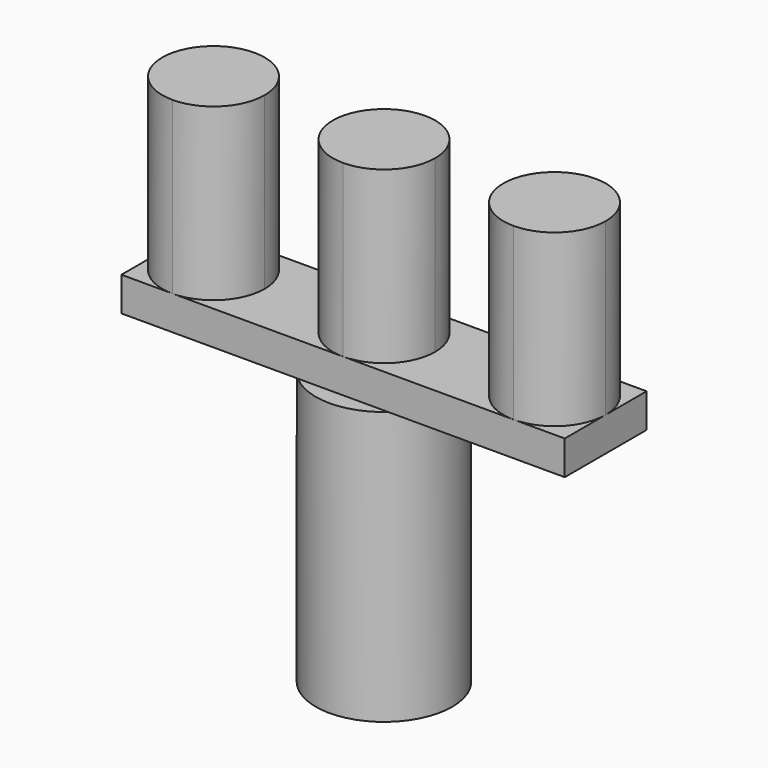
from build123d import *

# Parameters (mm, degrees)
F1_DEPTH = 5
F2_DEPTH = 30
F3_DEPTH = 30
F4_DEPTH = 30
F5_R     = 10
F6_DEPTH = 40


with BuildPart() as f1:
    # F0 (on Top) → F1 (new body)
    with BuildSketch(Plane.XY):
        with BuildLine():
            Line((32.5, 0), (32.5, 7.5))
            Line((32.5, 7.5), (25, 7.5))
            ThreePointArc((25, 7.5), (30.303301, 5.303301), (32.5, 0))
        make_face()
        with BuildLine():
            ThreePointArc((25, -7.5), (17.5, 0), (25, 7.5))
            Line((25, 7.5), (0, 7.5))
            ThreePointArc((0, 7.5), (5.303301, 5.303301), (7.5, 0))
            ThreePointArc((7.5, 0), (5.303301, -5.303301), (0, -7.5))
            Line((0, -7.5), (25, -7.5))
        make_face()
        with BuildLine():
            Line((32.5, -7.5), (32.5, 0))
            ThreePointArc((32.5, 0), (30.303301, -5.303301), (25, -7.5))
            Line((25, -7.5), (32.5, -7.5))
        make_face()
        with BuildLine():
            ThreePointArc((-7.5, 0), (-5.303301, 5.303301), (0, 7.5))
            Line((0, 7.5), (-25, 7.5))
            ThreePointArc((-25, 7.5), (-19.696699, 5.303301), (-17.5, 0))
            Line((-17.5, 0), (-7.5, 0))
        make_face()
        with BuildLine():
            ThreePointArc((-32.5, 0), (-30.303301, 5.303301), (-25, 7.5))
            Line((-25, 7.5), (-32.5, 7.5))
            Line((-32.5, 7.5), (-32.5, 0))
        make_face()
        with BuildLine():
            ThreePointArc((0, -7.5), (-5.303301, -5.303301), (-7.5, 0))
            Line((-7.5, 0), (-17.5, 0))
            ThreePointArc((-17.5, 0), (-19.696699, -5.303301), (-25, -7.5))
            Line((-25, -7.5), (0, -7.5))
        make_face()
        with BuildLine():
            ThreePointArc((-25, -7.5), (-30.303301, -5.303301), (-32.5, 0))
            Line((-32.5, 0), (-32.5, -7.5))
            Line((-32.5, -7.5), (-25, -7.5))
        make_face()
    extrude(amount=F1_DEPTH)

    # F0 (on Top) → F2 (join)
    with BuildSketch(Plane.XY):
        with BuildLine():
            ThreePointArc((-17.5, 0), (-19.696699, 5.303301), (-25, 7.5))
            ThreePointArc((-25, 7.5), (-30.303301, 5.303301), (-32.5, 0))
            ThreePointArc((-32.5, 0), (-30.303301, -5.303301), (-25, -7.5))
            ThreePointArc((-25, -7.5), (-19.696699, -5.303301), (-17.5, 0))
        make_face()
    extrude(amount=F2_DEPTH)

    # F0 (on Top) → F3 (join)
    with BuildSketch(Plane.XY):
        with BuildLine():
            ThreePointArc((7.5, 0), (5.303301, 5.303301), (0, 7.5))
            ThreePointArc((0, 7.5), (-5.303301, 5.303301), (-7.5, 0))
            ThreePointArc((-7.5, 0), (-5.303301, -5.303301), (0, -7.5))
            ThreePointArc((0, -7.5), (5.303301, -5.303301), (7.5, 0))
        make_face()
    extrude(amount=F3_DEPTH)

    # F0 (on Top) → F4 (join)
    with BuildSketch(Plane.XY):
        with BuildLine():
            ThreePointArc((32.5, 0), (30.303301, 5.303301), (25, 7.5))
            ThreePointArc((25, 7.5), (17.5, 0), (25, -7.5))
            ThreePointArc((25, -7.5), (30.303301, -5.303301), (32.5, 0))
        make_face()
    extrude(amount=F4_DEPTH)

    # F5 (on face) → F6 (join)
    with BuildSketch(Plane(origin=(0, 0, 0), x_dir=(1, 0, 0), z_dir=(0, 0, -1))):
        Circle(F5_R)
    extrude(amount=F6_DEPTH)


solid = f1.part
